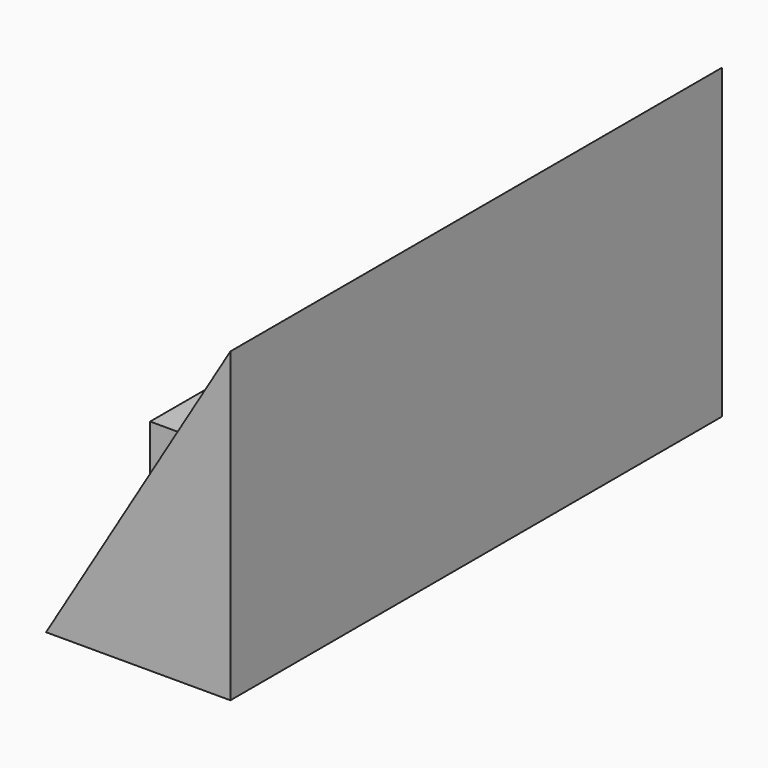
from build123d import *

# Parameters (mm, degrees)
F1_DEPTH = 127
F3_START = 27.432
F3_DEPTH = 73.406


with BuildPart() as f1:
    # F0 (on Front) → F1 (new body)
    with BuildSketch(Plane.XZ):
        Polygon((11.5757374972, -39.7863946855), (11.5757374972, 23.7136053145), (-26.5242625028, -39.7863946855), align=None)
    extrude(amount=F1_DEPTH)

    # F2 (on Front) → F3 (join)
    with BuildSketch(Plane.XZ.offset(F3_START)):
        Polygon((-25.9413104504, -11.8891856855), (-25.9413104504, -39.2034426332), (-9.755085832, -11.8891856855), align=None)
    extrude(amount=F3_DEPTH)


solid = f1.part
